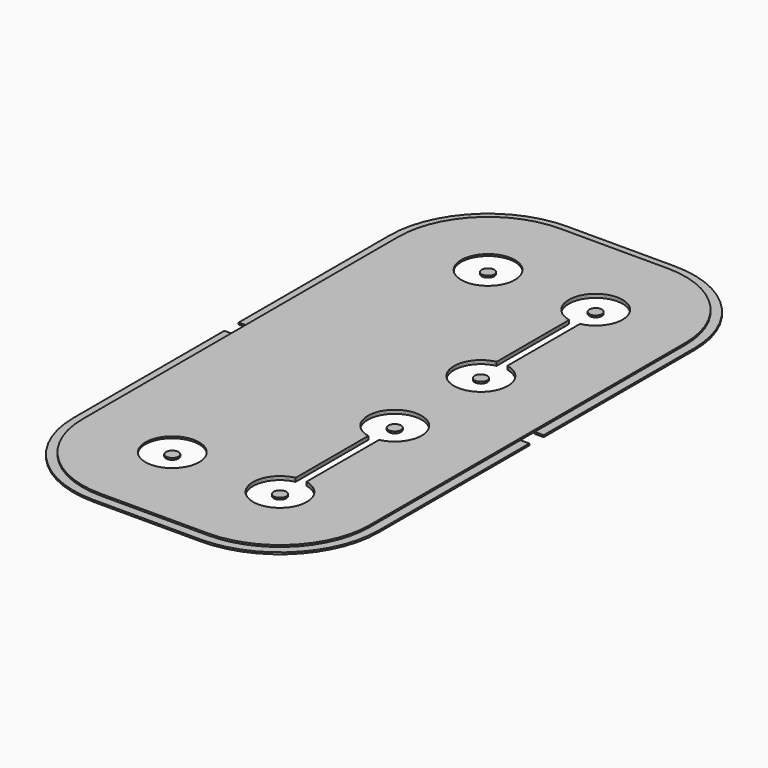
from build123d import *

# Parameters (mm, degrees)
F1_DEPTH = 0.1
F0_W     = 1
F0_H     = 0.5
F2_DEPTH = 0.1
F0_R     = 0.35
F3_DEPTH = 0.1
F0_R_2   = 1.5
F4_DEPTH = 0.1


with BuildPart() as f1:
    # F0 (on Top) → F1 (new body)
    with BuildSketch(Plane.XY):
        with BuildLine():
            ThreePointArc((33.3, 25.4696938457), (34.1618950039, 24.9486832981), (34.5, 24))
            ThreePointArc((34.5, 24), (32.0513167019, 22.8381049961), (32.7, 25.4696938457))
            Line((32.7, 25.4696938457), (32.7, 25.9773719933))
            ThreePointArc((32.7, 25.9773719933), (32.4452850888, 25.9215335978), (32.2, 25.833030278))
            ThreePointArc((32.2, 25.833030278), (31.904554885, 22.3266799469), (35, 24))
            ThreePointArc((35, 24), (34.6733200531, 25.095445115), (33.8, 25.833030278))
            ThreePointArc((33.8, 25.833030278), (33.5547149112, 25.9215335978), (33.3, 25.9773719933))
            Line((33.3, 25.9773719933), (33.3, 25.4696938457))
        make_face()
        with BuildLine():
            ThreePointArc((32.2, 25.833030278), (32.4452850888, 25.9215335978), (32.7, 25.9773719933))
            Line((32.7, 25.9773719933), (32.7, 30.0226280067))
            ThreePointArc((32.7, 30.0226280067), (32.4452850888, 30.0784664022), (32.2, 30.166969722))
            Line((32.2, 30.166969722), (32.2, 25.833030278))
        make_face()
        with BuildLine():
            Line((33.3, 30.5303061543), (33.3, 30.0226280067))
            ThreePointArc((33.3, 30.0226280067), (33.5547149112, 30.0784664022), (33.8, 30.166969722))
            ThreePointArc((33.8, 30.166969722), (34.6733200531, 30.904554885), (35, 32))
            ThreePointArc((35, 32), (31.904554885, 33.6733200531), (32.2, 30.166969722))
            ThreePointArc((32.2, 30.166969722), (32.4452850888, 30.0784664022), (32.7, 30.0226280067))
            Line((32.7, 30.0226280067), (32.7, 30.5303061543))
            ThreePointArc((32.7, 30.5303061543), (32.0513167019, 33.1618950039), (34.5, 32))
            ThreePointArc((34.5, 32), (34.1618950039, 31.0513167019), (33.3, 30.5303061543))
        make_face()
        with BuildLine():
            Line((33.3, 30.0226280067), (33.3, 25.9773719933))
            ThreePointArc((33.3, 25.9773719933), (33.5547149112, 25.9215335978), (33.8, 25.833030278))
            Line((33.8, 25.833030278), (33.8, 30.166969722))
            ThreePointArc((33.8, 30.166969722), (33.5547149112, 30.0784664022), (33.3, 30.0226280067))
        make_face()
    extrude(amount=-F1_DEPTH)


with BuildPart() as f1b:
    # F0 (on Top) → F1, piece 2 (new body)
    with BuildSketch(Plane.XY):
        with BuildLine():
            ThreePointArc((33.3, 39.4696938457), (34.1618950039, 38.9486832981), (34.5, 38))
            ThreePointArc((34.5, 38), (32.0513167019, 36.8381049961), (32.7, 39.4696938457))
            Line((32.7, 39.4696938457), (32.7, 39.9773719933))
            ThreePointArc((32.7, 39.9773719933), (32.4452850888, 39.9215335978), (32.2, 39.833030278))
            ThreePointArc((32.2, 39.833030278), (31.904554885, 36.3266799469), (35, 38))
            ThreePointArc((35, 38), (34.6733200531, 39.095445115), (33.8, 39.833030278))
            ThreePointArc((33.8, 39.833030278), (33.5547149112, 39.9215335978), (33.3, 39.9773719933))
            Line((33.3, 39.9773719933), (33.3, 39.4696938457))
        make_face()
        with BuildLine():
            ThreePointArc((32.2, 39.833030278), (32.4452850888, 39.9215335978), (32.7, 39.9773719933))
            Line((32.7, 39.9773719933), (32.7, 44.0226280067))
            ThreePointArc((32.7, 44.0226280067), (32.4452850888, 44.0784664022), (32.2, 44.166969722))
            Line((32.2, 44.166969722), (32.2, 39.833030278))
        make_face()
        with BuildLine():
            Line((33.3, 44.5303061543), (33.3, 44.0226280067))
            ThreePointArc((33.3, 44.0226280067), (33.5547149112, 44.0784664022), (33.8, 44.166969722))
            ThreePointArc((33.8, 44.166969722), (34.6733200531, 44.904554885), (35, 46))
            ThreePointArc((35, 46), (31.904554885, 47.6733200531), (32.2, 44.166969722))
            ThreePointArc((32.2, 44.166969722), (32.4452850888, 44.0784664022), (32.7, 44.0226280067))
            Line((32.7, 44.0226280067), (32.7, 44.5303061543))
            ThreePointArc((32.7, 44.5303061543), (32.0513167019, 47.1618950039), (34.5, 46))
            ThreePointArc((34.5, 46), (34.1618950039, 45.0513167019), (33.3, 44.5303061543))
        make_face()
        with BuildLine():
            Line((33.3, 44.0226280067), (33.3, 39.9773719933))
            ThreePointArc((33.3, 39.9773719933), (33.5547149112, 39.9215335978), (33.8, 39.833030278))
            Line((33.8, 39.833030278), (33.8, 44.166969722))
            ThreePointArc((33.8, 44.166969722), (33.5547149112, 44.0784664022), (33.3, 44.0226280067))
        make_face()
    extrude(amount=-F1_DEPTH)


with BuildPart() as f2:
    # F0 (on Top) → F2 (new body)
    with BuildSketch(Plane.XY):
        with BuildLine():
            ThreePointArc((22, 46), (23.4644660941, 49.5355339059), (27, 51))
            Line((27, 51), (29.5, 51))
            Line((29.5, 51), (29.5, 51.5))
            Line((29.5, 51.5), (27, 51.5))
            ThreePointArc((27, 51.5), (23.1109127035, 49.8890872965), (21.5, 46))
            Line((21.5, 46), (21.5, 35.5))
            Line((21.5, 35.5), (22, 35.5))
            Line((22, 35.5), (22, 46))
        make_face()
        with BuildLine():
            Line((30.5, 51.5), (30.5, 51))
            Line((30.5, 51), (33, 51))
            ThreePointArc((33, 51), (36.5355339059, 49.5355339059), (38, 46))
            Line((38, 46), (38, 35.5))
            Line((38, 35.5), (38.5, 35.5))
            Line((38.5, 35.5), (38.5, 46))
            ThreePointArc((38.5, 46), (36.8890872965, 49.8890872965), (33, 51.5))
            Line((33, 51.5), (30.5, 51.5))
        make_face()
        with Locations((30, 51.25)):
            Rectangle(F0_W, F0_H)
    extrude(amount=-F2_DEPTH)


with BuildPart() as f2b:
    # F0 (on Top) → F2, piece 2 (new body)
    with BuildSketch(Plane.XY):
        with BuildLine():
            Line((22, 24), (22, 34.5))
            Line((22, 34.5), (21.5, 34.5))
            Line((21.5, 34.5), (21.5, 24))
            ThreePointArc((21.5, 24), (23.1109127035, 20.1109127035), (27, 18.5))
            Line((27, 18.5), (29.5, 18.5))
            Line((29.5, 18.5), (29.5, 19))
            Line((29.5, 19), (27, 19))
            ThreePointArc((27, 19), (23.4644660941, 20.4644660941), (22, 24))
        make_face()
        with BuildLine():
            Line((38.5, 34.5), (38, 34.5))
            Line((38, 34.5), (38, 24))
            ThreePointArc((38, 24), (36.5355339059, 20.4644660941), (33, 19))
            Line((33, 19), (30.5, 19))
            Line((30.5, 19), (30.5, 18.5))
            Line((30.5, 18.5), (33, 18.5))
            ThreePointArc((33, 18.5), (36.8890872965, 20.1109127035), (38.5, 24))
            Line((38.5, 24), (38.5, 34.5))
        make_face()
        with Locations((30, 18.75)):
            Rectangle(F0_W, F0_H)
    extrude(amount=-F2_DEPTH)


with BuildPart() as f3:
    # F0 (on Top) → F3 (new body)
    with BuildSketch(Plane.XY):
        with Locations((33, 46)):
            Circle(F0_R)
    extrude(amount=-F3_DEPTH)


with BuildPart() as f3b:
    # F0 (on Top) → F3, piece 2 (new body)
    with BuildSketch(Plane.XY):
        with Locations((33, 38)):
            Circle(F0_R)
    extrude(amount=-F3_DEPTH)


with BuildPart() as f3c:
    # F0 (on Top) → F3, piece 3 (new body)
    with BuildSketch(Plane.XY):
        with Locations((33, 32)):
            Circle(F0_R)
    extrude(amount=-F3_DEPTH)


with BuildPart() as f3d:
    # F0 (on Top) → F3, piece 4 (new body)
    with BuildSketch(Plane.XY):
        with Locations((33, 24)):
            Circle(F0_R)
    extrude(amount=-F3_DEPTH)


with BuildPart() as f3e:
    # F0 (on Top) → F3, piece 5 (new body)
    with BuildSketch(Plane.XY):
        with Locations((27, 24)):
            Circle(F0_R)
    extrude(amount=-F3_DEPTH)


with BuildPart() as f3f:
    # F0 (on Top) → F3, piece 6 (new body)
    with BuildSketch(Plane.XY):
        with Locations((27, 46)):
            Circle(F0_R)
    extrude(amount=-F3_DEPTH)


with BuildPart() as f4:
    # F0 (on Top) → F4 (new body)
    with BuildSketch(Plane.XY):
        with BuildLine():
            Line((29.5, 51), (27, 51))
            ThreePointArc((27, 51), (23.4644660941, 49.5355339059), (22, 46))
            Line((22, 46), (22, 35.5))
            Line((22, 35.5), (22, 34.5))
            Line((22, 34.5), (22, 24))
            ThreePointArc((22, 24), (23.4644660941, 20.4644660941), (27, 19))
            Line((27, 19), (29.5, 19))
            Line((29.5, 19), (30.5, 19))
            Line((30.5, 19), (33, 19))
            ThreePointArc((33, 19), (36.5355339059, 20.4644660941), (38, 24))
            Line((38, 24), (38, 34.5))
            Line((38, 34.5), (38, 35.5))
            Line((38, 35.5), (38, 46))
            ThreePointArc((38, 46), (36.5355339059, 49.5355339059), (33, 51))
            Line((33, 51), (30.5, 51))
            Line((30.5, 51), (29.5, 51))
        make_face()
        with Locations((27, 24)):
            Circle(F0_R_2, mode=Mode.SUBTRACT)
        with BuildLine():
            Line((33.8, 30.166969722), (33.8, 25.833030278))
            ThreePointArc((33.8, 25.833030278), (34.6733200531, 25.095445115), (35, 24))
            ThreePointArc((35, 24), (31.904554885, 22.3266799469), (32.2, 25.833030278))
            Line((32.2, 25.833030278), (32.2, 30.166969722))
            ThreePointArc((32.2, 30.166969722), (31.904554885, 33.6733200531), (35, 32))
            ThreePointArc((35, 32), (34.6733200531, 30.904554885), (33.8, 30.166969722))
        make_face(mode=Mode.SUBTRACT)
        with BuildLine():
            Line((33.8, 44.166969722), (33.8, 39.833030278))
            ThreePointArc((33.8, 39.833030278), (34.6733200531, 39.095445115), (35, 38))
            ThreePointArc((35, 38), (31.904554885, 36.3266799469), (32.2, 39.833030278))
            Line((32.2, 39.833030278), (32.2, 44.166969722))
            ThreePointArc((32.2, 44.166969722), (31.904554885, 47.6733200531), (35, 46))
            ThreePointArc((35, 46), (34.6733200531, 44.904554885), (33.8, 44.166969722))
        make_face(mode=Mode.SUBTRACT)
        with Locations((27, 46)):
            Circle(F0_R_2, mode=Mode.SUBTRACT)
        with BuildLine():
            Line((33.3, 44.5303061543), (33.3, 44.0226280067))
            ThreePointArc((33.3, 44.0226280067), (33.5547149112, 44.0784664022), (33.8, 44.166969722))
            ThreePointArc((33.8, 44.166969722), (34.6733200531, 44.904554885), (35, 46))
            ThreePointArc((35, 46), (31.904554885, 47.6733200531), (32.2, 44.166969722))
            ThreePointArc((32.2, 44.166969722), (32.4452850888, 44.0784664022), (32.7, 44.0226280067))
            Line((32.7, 44.0226280067), (32.7, 44.5303061543))
            ThreePointArc((32.7, 44.5303061543), (32.0513167019, 47.1618950039), (34.5, 46))
            ThreePointArc((34.5, 46), (34.1618950039, 45.0513167019), (33.3, 44.5303061543))
        make_face()
        with BuildLine():
            ThreePointArc((32.2, 39.833030278), (32.4452850888, 39.9215335978), (32.7, 39.9773719933))
            Line((32.7, 39.9773719933), (32.7, 44.0226280067))
            ThreePointArc((32.7, 44.0226280067), (32.4452850888, 44.0784664022), (32.2, 44.166969722))
            Line((32.2, 44.166969722), (32.2, 39.833030278))
        make_face()
        with BuildLine():
            Line((33.3, 44.0226280067), (33.3, 39.9773719933))
            ThreePointArc((33.3, 39.9773719933), (33.5547149112, 39.9215335978), (33.8, 39.833030278))
            Line((33.8, 39.833030278), (33.8, 44.166969722))
            ThreePointArc((33.8, 44.166969722), (33.5547149112, 44.0784664022), (33.3, 44.0226280067))
        make_face()
        with BuildLine():
            ThreePointArc((33.3, 39.4696938457), (34.1618950039, 38.9486832981), (34.5, 38))
            ThreePointArc((34.5, 38), (32.0513167019, 36.8381049961), (32.7, 39.4696938457))
            Line((32.7, 39.4696938457), (32.7, 39.9773719933))
            ThreePointArc((32.7, 39.9773719933), (32.4452850888, 39.9215335978), (32.2, 39.833030278))
            ThreePointArc((32.2, 39.833030278), (31.904554885, 36.3266799469), (35, 38))
            ThreePointArc((35, 38), (34.6733200531, 39.095445115), (33.8, 39.833030278))
            ThreePointArc((33.8, 39.833030278), (33.5547149112, 39.9215335978), (33.3, 39.9773719933))
            Line((33.3, 39.9773719933), (33.3, 39.4696938457))
        make_face()
        with BuildLine():
            Line((33.3, 30.5303061543), (33.3, 30.0226280067))
            ThreePointArc((33.3, 30.0226280067), (33.5547149112, 30.0784664022), (33.8, 30.166969722))
            ThreePointArc((33.8, 30.166969722), (34.6733200531, 30.904554885), (35, 32))
            ThreePointArc((35, 32), (31.904554885, 33.6733200531), (32.2, 30.166969722))
            ThreePointArc((32.2, 30.166969722), (32.4452850888, 30.0784664022), (32.7, 30.0226280067))
            Line((32.7, 30.0226280067), (32.7, 30.5303061543))
            ThreePointArc((32.7, 30.5303061543), (32.0513167019, 33.1618950039), (34.5, 32))
            ThreePointArc((34.5, 32), (34.1618950039, 31.0513167019), (33.3, 30.5303061543))
        make_face()
        with BuildLine():
            ThreePointArc((32.2, 25.833030278), (32.4452850888, 25.9215335978), (32.7, 25.9773719933))
            Line((32.7, 25.9773719933), (32.7, 30.0226280067))
            ThreePointArc((32.7, 30.0226280067), (32.4452850888, 30.0784664022), (32.2, 30.166969722))
            Line((32.2, 30.166969722), (32.2, 25.833030278))
        make_face()
        with BuildLine():
            Line((33.3, 30.0226280067), (33.3, 25.9773719933))
            ThreePointArc((33.3, 25.9773719933), (33.5547149112, 25.9215335978), (33.8, 25.833030278))
            Line((33.8, 25.833030278), (33.8, 30.166969722))
            ThreePointArc((33.8, 30.166969722), (33.5547149112, 30.0784664022), (33.3, 30.0226280067))
        make_face()
        with BuildLine():
            ThreePointArc((33.3, 25.4696938457), (34.1618950039, 24.9486832981), (34.5, 24))
            ThreePointArc((34.5, 24), (32.0513167019, 22.8381049961), (32.7, 25.4696938457))
            Line((32.7, 25.4696938457), (32.7, 25.9773719933))
            ThreePointArc((32.7, 25.9773719933), (32.4452850888, 25.9215335978), (32.2, 25.833030278))
            ThreePointArc((32.2, 25.833030278), (31.904554885, 22.3266799469), (35, 24))
            ThreePointArc((35, 24), (34.6733200531, 25.095445115), (33.8, 25.833030278))
            ThreePointArc((33.8, 25.833030278), (33.5547149112, 25.9215335978), (33.3, 25.9773719933))
            Line((33.3, 25.9773719933), (33.3, 25.4696938457))
        make_face()
    extrude(amount=F4_DEPTH)


solid = Compound([f1.part, f1b.part, f2.part, f2b.part, f3.part, f3b.part, f3c.part, f3d.part, f3e.part, f3f.part, f4.part])
